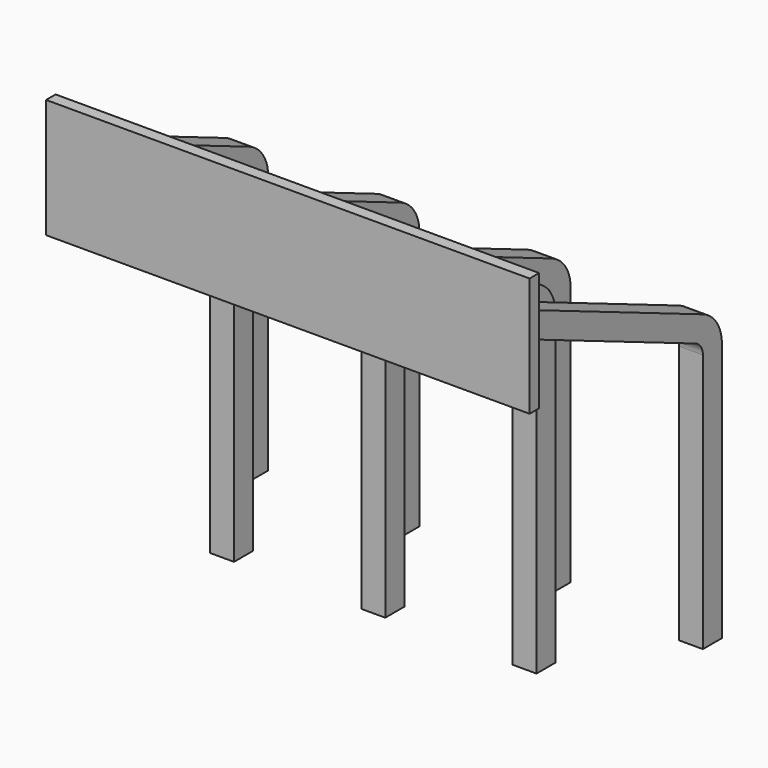
from build123d import *

# Parameters (mm, degrees)
SKETCH009_W            = 0.2
SKETCH009_H            = 2
PAD004_DEPTH           = 4.06
PAD005_DEPTH           = 0.2
LINEARPATTERN_COUNT    = 4
LINEARPATTERN_PITCH    = 2.54
PAD006_DEPTH           = 0.2
LINEARPATTERN001_COUNT = 3
LINEARPATTERN001_PITCH = 2.54


with BuildPart() as part:
    # Sketch009 (on DatumPlane) → Pad004 (new body, symmetric)
    with BuildSketch(Plane.YZ.offset(3.81)):
        with Locations((-3.8, 2.5)):
            Rectangle(SKETCH009_W, SKETCH009_H)
    extrude(amount=PAD004_DEPTH, both=True)

    # Sketch010 → Pad005 (join, symmetric)
    with BuildSketch(Plane.YZ):
        with BuildLine():
            Line((-0.2, -3.5), (-0.2, 0.85))
            ThreePointArc((-0.2, 0.85), (-0.241548, 0.988014), (-0.352383, 1.080154))
            Line((-0.352383, 1.080154), (-3.7, 2.5))
            Line((-3.7, 2.5), (-3.7, 2.934491))
            Line((-3.7, 2.934491), (-0.196196, 1.448401))
            ThreePointArc((0.2, 0.85), (0.091974, 1.208837), (-0.196196, 1.448401))
            Line((0.2, 0.85), (0.2, -3.5))
            Line((0.2, -3.5), (-0.2, -3.5))
        make_face()
    pad005 = extrude(amount=PAD005_DEPTH, both=True)

    # LinearPattern: Pad005 ×4
    with Locations(*[(i * LINEARPATTERN_PITCH, 0, 0) for i in range(1, LINEARPATTERN_COUNT)]):
        add(pad005)

    # Sketch011 (on DatumPlane) → Pad006 (join, symmetric)
    with BuildSketch(Plane.YZ.offset(1.27)):
        with BuildLine():
            Line((-3.7, 2.934491), (-3.7, 2.5))
            Line((-3.7, 2.5), (-2.257383, 1.888134))
            ThreePointArc((-2.105, 1.65798), (-2.146548, 1.795994), (-2.257383, 1.888134))
            Line((-2.105, 1.65798), (-2.105, -3.5))
            Line((-2.105, -3.5), (-1.705, -3.5))
            Line((-1.705, -3.5), (-1.705, 1.65798))
            ThreePointArc((-1.705, 1.65798), (-1.813026, 2.016816), (-2.101196, 2.256381))
            Line((-2.101196, 2.256381), (-3.7, 2.934491))
        make_face()
    pad006 = extrude(amount=PAD006_DEPTH, both=True)

    # LinearPattern001: Pad006 ×3
    with Locations(*[(i * LINEARPATTERN001_PITCH, 0, 0) for i in range(1, LINEARPATTERN001_COUNT)]):
        add(pad006)


solid = part.part
